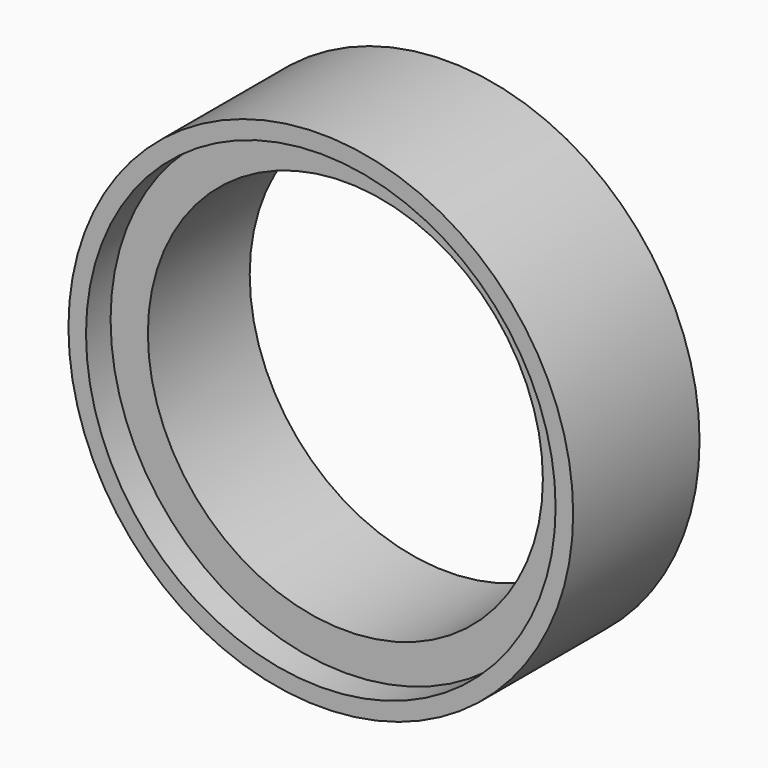
from build123d import *

# Parameters (mm, degrees)
F0_R     = 57.5
F1_DEPTH = 36
F2_R     = 53.5
F3_DEPTH = 7
F4_R     = 45
F5_DEPTH = 29.001


with BuildPart() as f1:
    # F0 (on Front) → F1 (new body)
    with BuildSketch(Plane.XZ):
        Circle(F0_R)
    extrude(amount=F1_DEPTH)

    # F2 (on face) → F3 (cut)
    with BuildSketch(Plane.XZ.offset(36)):
        Circle(F2_R)
    extrude(amount=-F3_DEPTH, mode=Mode.SUBTRACT)

    # F4 (on face) → F5 (cut, through all)
    with BuildSketch(Plane.XZ.offset(29)):
        Circle(F4_R)
    extrude(amount=-F5_DEPTH, mode=Mode.SUBTRACT)


solid = f1.part
